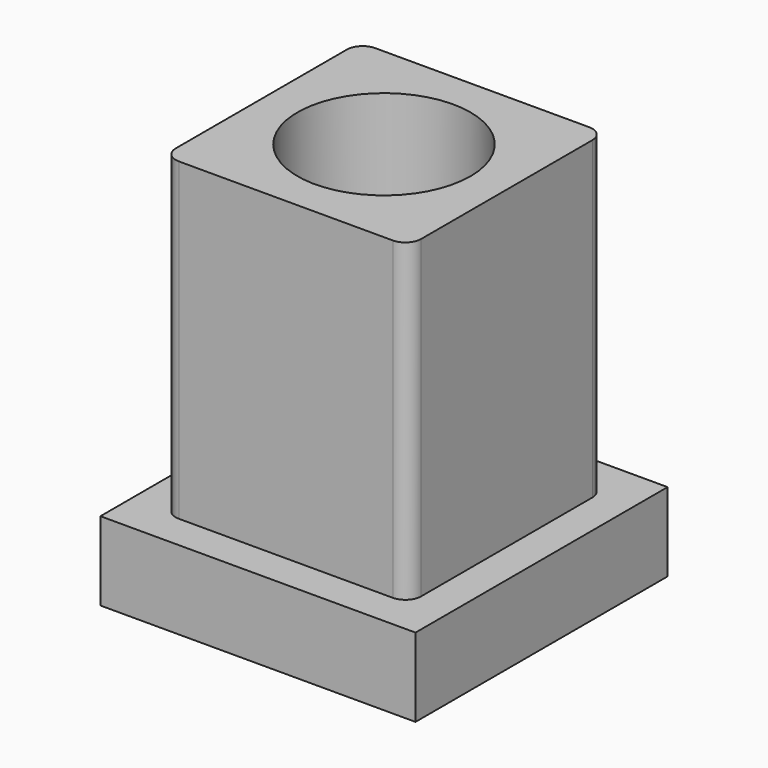
from build123d import *

# Parameters (mm, degrees)
F0_W     = 20.03
F0_H     = 20.03
F1_DEPTH = 5
F2_W     = 15.6
F2_H     = 15.6
F3_DEPTH = 20
F4_R     = 5.5
F5_DEPTH = 15
F6_R     = 1


with BuildPart() as f1:
    # F0 (on Top) → F1 (new body)
    with BuildSketch(Plane.XY):
        Rectangle(F0_W, F0_H)
    extrude(amount=F1_DEPTH)

    # F2 (on face) → F3 (join)
    with BuildSketch(Plane.XY.offset(5)):
        Rectangle(F2_W, F2_H)
    extrude(amount=F3_DEPTH)

    # F4 (on face) → F5 (cut)
    with BuildSketch(Plane.XY.offset(25)):
        Circle(F4_R)
    extrude(amount=-F5_DEPTH, mode=Mode.SUBTRACT)

    # F6
    f6_edges = [f1.edges().sort_by_distance(p)[0] for p in [
        (-7.8, -7.8, 15),
        (7.8, -7.8, 15),
        (7.8, 7.8, 15),
        (-7.8, 7.8, 15),
    ]]
    fillet(f6_edges, radius=F6_R)


solid = f1.part
